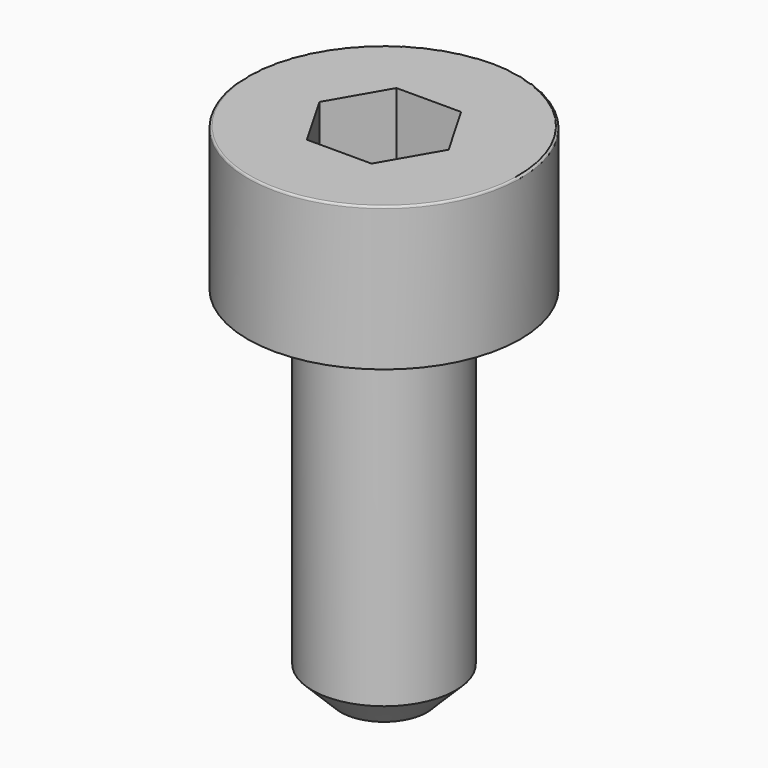
from build123d import *

# Parameters (mm, degrees)
POCKET_DEPTH = 1.56


with BuildPart() as part:
    # Sketch → Revolve (revolve)
    with BuildSketch(Plane.YZ):
        with BuildLine():
            Line((0.999, 0), (1.9, 0))
            Line((1.9, 0), (1.9, 1.97229))
            ThreePointArc((1.9, 1.97229), (1.891884, 1.991884), (1.87229, 2))
            Line((1.87229, 2), (0, 2))
            Line((0, -5), (0, 2))
            Line((0.6, -5), (0, -5))
            Line((1, -4.6), (0.6, -5))
            Line((1, -0.2), (1, -4.6))
            Line((0.999, 0), (1, -0.2))
        make_face()
    revolve(axis=Axis((0, 0, 0), (0, 0, 1)))

    # Sketch001 → Pocket (cut)
    with BuildSketch(Plane.XY.offset(2)):
        Polygon((0.900666, 0), (0.450333, 0.78), (-0.450333, 0.78), (-0.900666, 0), (-0.450333, -0.78), (0.450333, -0.78), align=None)
    extrude(amount=-POCKET_DEPTH, mode=Mode.SUBTRACT)


solid = part.part
